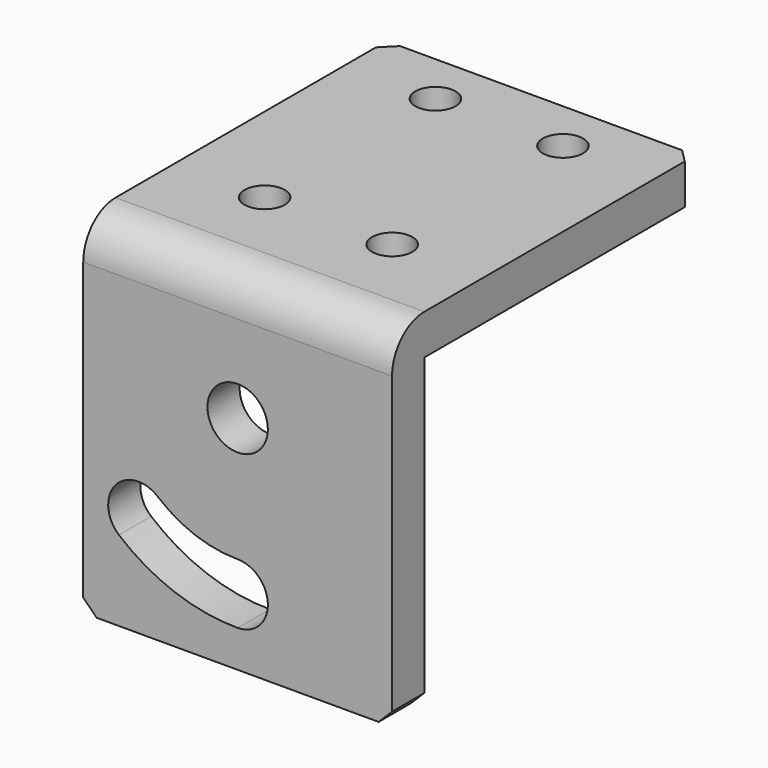
from build123d import *

# Parameters (mm, degrees)
F1_DEPTH = 46
F3_D     = 6
F5_R     = 6
F6_SIZE  = 2
F4_R     = 4.5
F7_DEPTH = 25


with BuildPart() as f1:
    # F0 (on Right) → F1 (new body)
    with BuildSketch(Plane.YZ):
        Polygon((56.5, 0), (0, 0), (0, -52), (6, -52), (6, -6), (56.5, -6), align=None)
    extrude(amount=F1_DEPTH)

    # F3 (through all)
    with Locations(Plane.XY):
        with Locations((13.5, 16.9), (32.5, 16.9), (32.5, 48.7), (13.5, 48.7)):
            Hole(F3_D / 2)

    # F5
    f5_edges = [f1.edges().sort_by_distance(p)[0] for p in [
        (23, 0, 0),
    ]]
    fillet(f5_edges, radius=F5_R)

    # F6
    f6_edges = [f1.edges().sort_by_distance(p)[0] for p in [
        (46, 56.5, -3),
        (0, 56.5, -3),
        (0, 3, -52),
        (46, 3, -52),
    ]]
    chamfer(f6_edges, length=F6_SIZE)

    # F4 (on face) → F7 (cut)
    with BuildSketch(Plane.XZ):
        with Locations((23, -19)):
            Circle(F4_R)
        with BuildLine():
            ThreePointArc((23, -37.5), (16.672627, -36.384313), (11.108429, -33.171822))
            ThreePointArc((11.108429, -33.171822), (4.768685, -33.726478), (5.323341, -40.066222))
            ThreePointArc((5.323341, -40.066222), (13.594446, -44.841547), (23, -46.5))
            ThreePointArc((23, -46.5), (27.5, -42), (23, -37.5))
        make_face()
    extrude(amount=-F7_DEPTH, mode=Mode.SUBTRACT)


solid = f1.part
